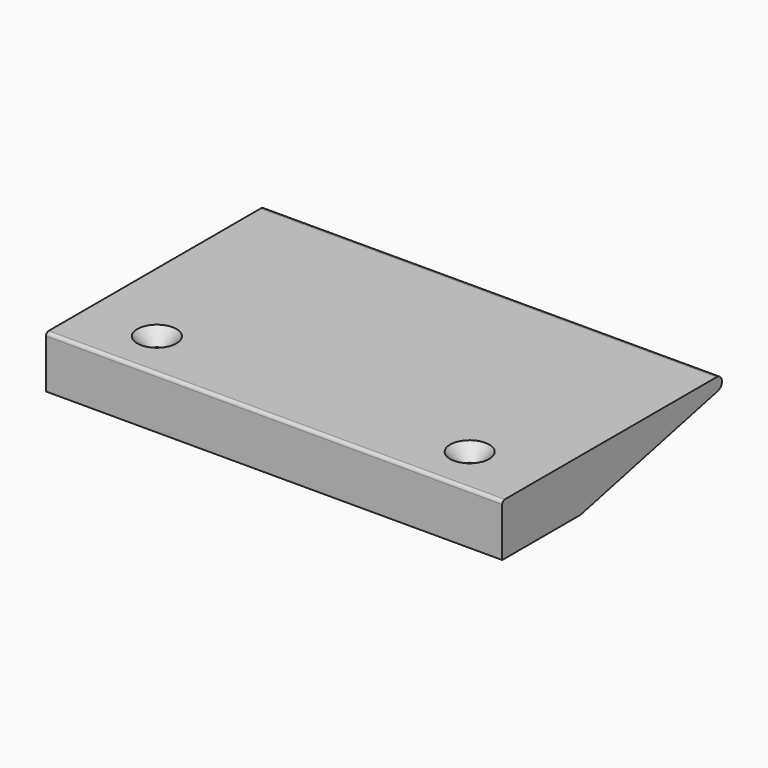
from build123d import *

# Parameters (mm, degrees)
F0_W     = 70
F0_H     = 15
F0_R     = 1
F1_DEPTH = 8
F2_SIZE  = 2
F4_DEPTH = 70
F5_R     = 1
F6_R     = 0.5


with BuildPart() as f1:
    # F0 (on Top) → F1 (new body)
    with BuildSketch(Plane.XY):
        with Locations((35, 7.5)):
            Rectangle(F0_W, F0_H)
        with Locations((11, 7.5)):
            Circle(F0_R, mode=Mode.SUBTRACT)
        with Locations((59, 7.5)):
            Circle(F0_R, mode=Mode.SUBTRACT)
    extrude(amount=F1_DEPTH)

    # F2
    f2_edges = [f1.edges().sort_by_distance(p)[0] for p in [
        (10, 7.5, 8),
        (58, 7.5, 8),
    ]]
    chamfer(f2_edges, length=F2_SIZE)

    # F3 (on face) → F4 (join)
    with BuildSketch(Plane.YZ.offset(70)):
        Polygon((50, 8), (15, 8), (15, 0), align=None)
    extrude(amount=-F4_DEPTH)

    # F5
    f5_edges = [f1.edges().sort_by_distance(p)[0] for p in [
        (35, 50, 8),
    ]]
    fillet(f5_edges, radius=F5_R)

    # F6
    f6_edges = [f1.edges().sort_by_distance(p)[0] for p in [
        (35, 0, 8),
    ]]
    fillet(f6_edges, radius=F6_R)


solid = f1.part
